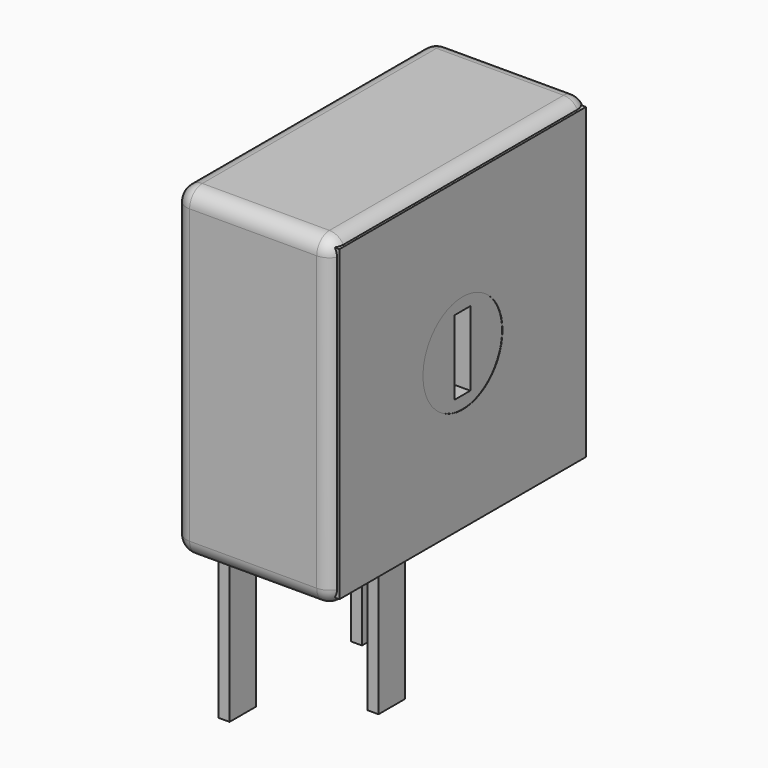
from build123d import *

# Parameters (mm, degrees)
SKETCH001_R       = 1.5
SKETCH001_W       = 0.6
SKETCH001_H       = 2.25
PAD001_DEPTH      = 4.8
SKETCH003_W       = 0.333334
SKETCH003_H       = 1
PAD002_DEPTH      = 5.1
PAD002_DEPTH_BACK = 3
SKETCH004_W       = 9.31
SKETCH004_H       = 9.31
SKETCH004_R       = 1.5
PAD003_DEPTH      = 0.2
SKETCH_W          = 9.8
SKETCH_H          = 9.8
SKETCH_R          = 1.5
PAD_DEPTH         = 4.8
FILLET_R          = 0.48


with BuildPart() as pad001:
    # Sketch001 → Pad001 (new body)
    with BuildSketch(Plane.YZ):
        with Locations((-2.5, 7.1)):
            Circle(SKETCH001_R)
        with Locations((-2.5, 7.1)):
            Rectangle(SKETCH001_W, SKETCH001_H, mode=Mode.SUBTRACT)
    extrude(amount=PAD001_DEPTH)


with BuildPart() as pad002:
    # Sketch003 → Pad002 (new body, two sides)
    with BuildSketch(Plane.XY) as pad002_sk:
        Rectangle(SKETCH003_W, SKETCH003_H)
        with Locations((2.5, -2.5)):
            Rectangle(SKETCH003_W, SKETCH003_H)
        with Locations((0, -5)):
            Rectangle(SKETCH003_W, SKETCH003_H)
    extrude(amount=PAD002_DEPTH)
    extrude(pad002_sk.sketch, amount=-PAD002_DEPTH_BACK)


with BuildPart() as pad003:
    # Sketch004 → Pad003 (new body)
    with BuildSketch(Plane.YZ.offset(4.81)):
        with Locations((-2.5, 7.1)):
            Rectangle(SKETCH004_W, SKETCH004_H)
        with Locations((-2.5, 7.1)):
            Circle(SKETCH004_R, mode=Mode.SUBTRACT)
    extrude(amount=-PAD003_DEPTH)


with BuildPart() as fillet_body:
    # Sketch → Pad (new body)
    with BuildSketch(Plane.YZ):
        with Locations((-2.5, 7.1)):
            Rectangle(SKETCH_W, SKETCH_H)
        with Locations((-2.5, 7.1)):
            Circle(SKETCH_R, mode=Mode.SUBTRACT)
    extrude(amount=PAD_DEPTH)

    # Fillet
    fillet_edges = [fillet_body.edges().sort_by_distance(p)[0] for p in [
        (0, -7.4, 7.1),
        (0, -2.5, 12),
        (4.8, -2.5, 12),
        (4.8, -7.4, 7.1),
        (4.8, 2.4, 7.1),
        (4.8, -2.5, 2.2),
        (2.4, -7.4, 12),
        (2.4, -7.4, 2.2),
        (2.4, 2.4, 2.2),
        (0, -2.5, 2.2),
        (0, 2.4, 7.1),
        (2.4, 2.4, 12),
    ]]
    fillet(fillet_edges, radius=FILLET_R)


solid = Compound([pad001.part, pad002.part, pad003.part, fillet_body.part])
